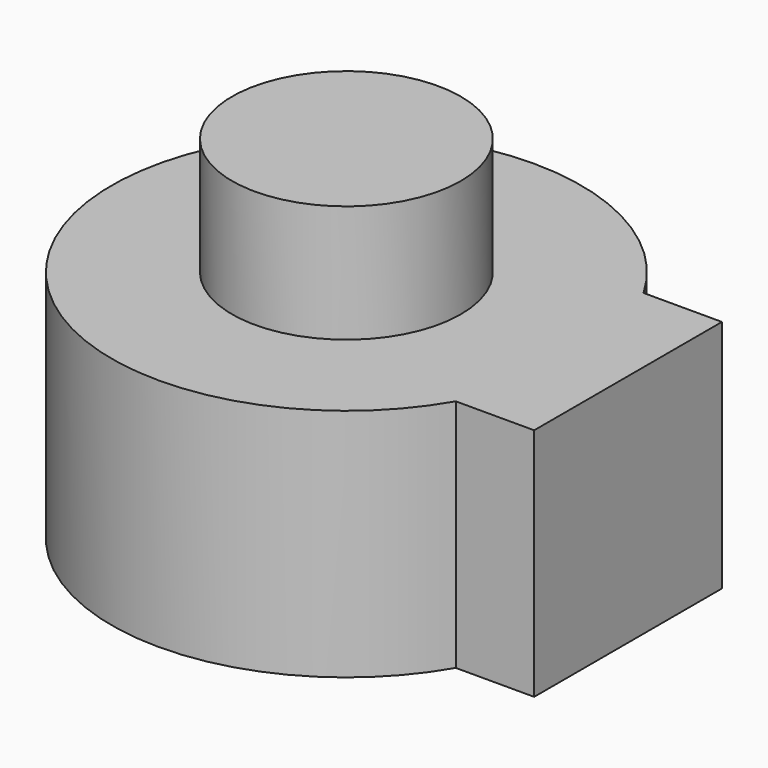
from build123d import *

# Parameters (mm, degrees)
F1_DEPTH = 20
F2_R     = 9.75
F3_DEPTH = 10


with BuildPart() as f1:
    # F0 (on Top) → F1 (new body)
    with BuildSketch(Plane.XY):
        with BuildLine():
            ThreePointArc((37.3205080757, 10), (39.3185165258, 14.8236190979), (40, 20))
            ThreePointArc((40, 20), (39.3185165258, 25.1763809021), (37.3205080757, 30))
            Line((37.3205080757, 30), (20, 30))
            Line((20, 30), (20, 10))
            Line((20, 10), (37.3205080757, 10))
        make_face()
        with BuildLine():
            ThreePointArc((37.3205080757, 30), (39.3185165258, 25.1763809021), (40, 20))
            ThreePointArc((40, 20), (39.3185165258, 14.8236190979), (37.3205080757, 10))
            Line((37.3205080757, 10), (44, 10))
            Line((44, 10), (44, 30))
            Line((44, 30), (37.3205080757, 30))
        make_face()
        with BuildLine():
            Line((20, 30), (37.3205080757, 30))
            ThreePointArc((37.3205080757, 30), (0, 20), (37.3205080757, 10))
            Line((37.3205080757, 10), (20, 10))
            Line((20, 10), (20, 30))
        make_face()
    extrude(amount=F1_DEPTH)

    # F2 (on face) → F3 (join)
    with BuildSketch(Plane.XY.offset(20)):
        with Locations((20, 20)):
            Circle(F2_R)
    extrude(amount=F3_DEPTH)


solid = f1.part
